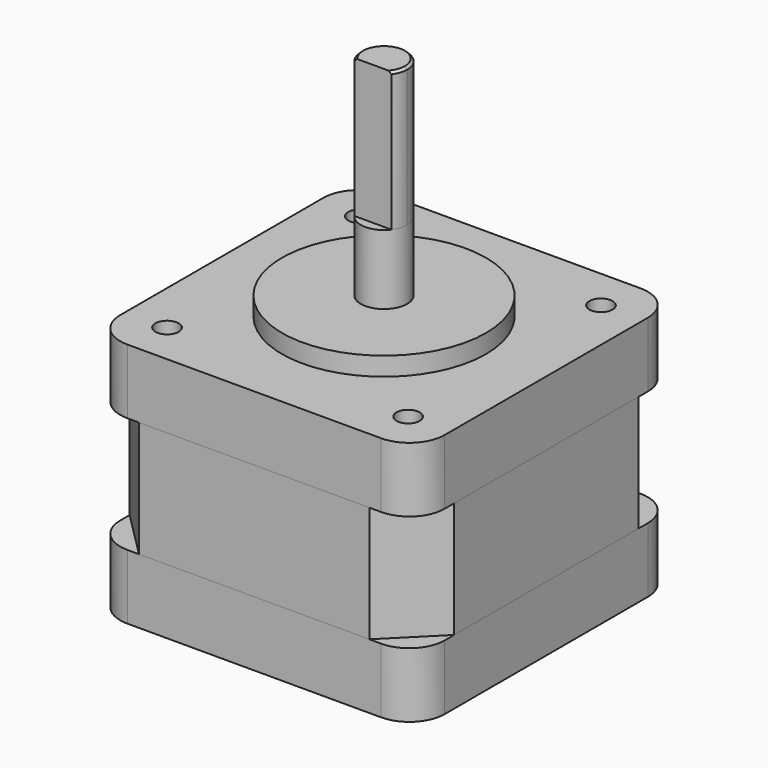
from build123d import *

# Parameters (mm, degrees)
F0_R      = 11
F1_DEPTH  = 2
F0_W      = 35
F0_H      = 35
F2_DEPTH  = 7
F3_DEPTH  = 12.5
F4_DEPTH  = 7
F5_SIZE   = 5.08
F6_R      = 3.81
F6_2_R    = 3.81
F7_D      = 2.5
F7_DEPTH  = 14.2
F7_TIP    = 0.7510757738
F8_R      = 2.5
F9_DEPTH  = 7.5
F11_DEPTH = 15
F12_SIZE  = 0.254


with BuildPart() as f1:
    # F0 (on Top) → F1 (new body)
    with BuildSketch(Plane.XY):
        Circle(F0_R)
    extrude(amount=F1_DEPTH)

    # F0 (on Top) → F2 (join)
    with BuildSketch(Plane.XY):
        Rectangle(F0_W, F0_H)
        Circle(F0_R, mode=Mode.SUBTRACT)
        Circle(F0_R)
    extrude(amount=-F2_DEPTH)


with BuildPart() as f3:
    # F3 (new): a face of the model
    f3_faces = [f1.part.faces().sort_by_distance(p)[0] for p in [
        (0, 0, -7),
    ]]
    extrude(f3_faces, amount=F3_DEPTH)


with BuildPart() as f4:
    # F4 (new): a face of the model
    f4_faces = [f3.part.faces().sort_by_distance(p)[0] for p in [
        (0, 0, -19.5),
    ]]
    extrude(f4_faces, amount=F4_DEPTH)

    # F6#2
    f6_2_edges = [f4.edges().sort_by_distance(p)[0] for p in [
        (17.5, 17.5, -23),
        (17.5, -17.5, -23),
        (-17.5, -17.5, -23),
        (-17.5, 17.5, -23),
    ]]
    fillet(f6_2_edges, radius=F6_2_R)


with BuildPart() as f3_1:
    add(f3.part)

    # F5
    f5_edges = [f3_1.edges().sort_by_distance(p)[0] for p in [
        (-17.5, -17.5, -13.25),
        (17.5, -17.5, -13.25),
        (-17.5, 17.5, -13.25),
        (17.5, 17.5, -13.25),
    ]]
    chamfer(f5_edges, length=F5_SIZE)


with BuildPart() as f1_1:
    add(f1.part)

    # F6
    f6_edges = [f1_1.edges().sort_by_distance(p)[0] for p in [
        (17.5, 17.5, -3.5),
        (17.5, -17.5, -3.5),
        (-17.5, -17.5, -3.5),
        (-17.5, 17.5, -3.5),
    ]]
    fillet(f6_edges, radius=F6_R)

    # F7
    with Locations(Plane.XY):
        with Locations((-13, 13), (13, 13), (13, -13), (-13, -13)):
            Hole(F7_D / 2, depth=F7_DEPTH)
            with Locations((0, 0, -(F7_DEPTH + F7_TIP / 2))):  # 118° drill point
                Cone(0, F7_D / 2, F7_TIP, mode=Mode.SUBTRACT)

    # F8 (on face) → F9 (join)
    with BuildSketch(Plane.XY.offset(2)):
        Circle(F8_R)
    extrude(amount=F9_DEPTH)

    # F10 (on face) → F11 (join)
    with BuildSketch(Plane.XY.offset(9.5)):
        with BuildLine():
            Line((-2, -1.5), (2, -1.5))
            ThreePointArc((2, -1.5), (2.3717082451, -0.790569415), (2.5, 0))
            ThreePointArc((2.5, 0), (-0.790569415, 2.3717082451), (-2, -1.5))
        make_face()
    extrude(amount=F11_DEPTH)

    # F12
    f12_edges = [f1_1.edges().sort_by_distance(p)[0] for p in [
        (0, 2.5, 24.5),
    ]]
    chamfer(f12_edges, length=F12_SIZE)


solid = Compound([f4.part, f3_1.part, f1_1.part])
